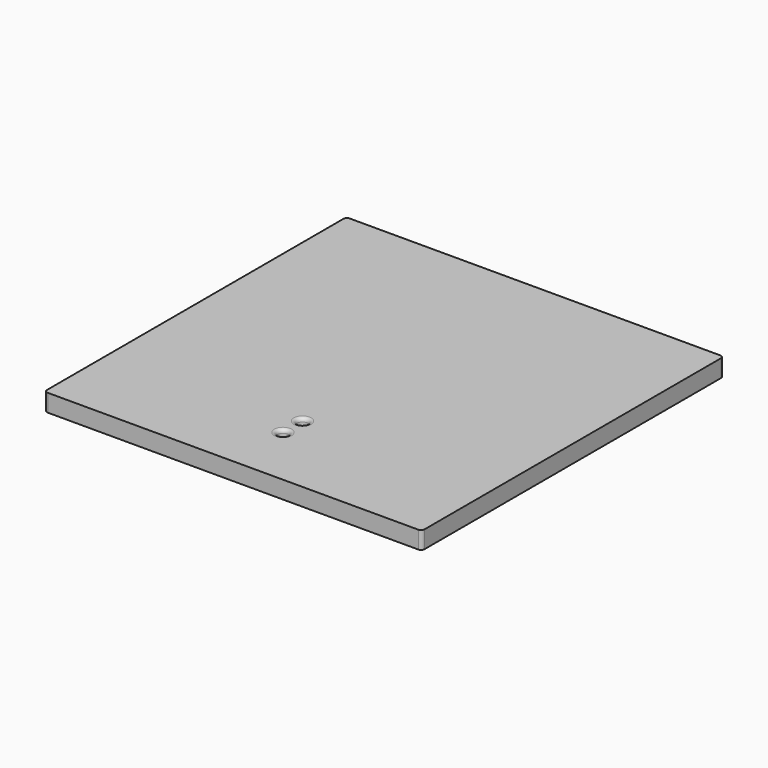
from build123d import *

# Parameters (mm, degrees)
F0_W     = 107.95
F0_H     = 107.95
F0_W_2   = 9.32
F0_H_2   = 14.5
F0_R     = 1.5
F0_H_3   = 30.63
F1_DEPTH = 5
F2_DEPTH = 3
F3_DEPTH = 5
F4_R     = 1


with BuildPart() as f1:
    # F0 (on Top) → F1 (new body)
    with BuildSketch(Plane.XY):
        with Locations((0, 36.13)):
            Rectangle(F0_W, F0_H)
        Polygon((6.16, 42.13), (6.16, 10), (6.16, -6), (0, -6), (-6.16, -6), (-6.16, 10), (-6.16, 42.13), (0, 42.13), align=None, mode=Mode.SUBTRACT)
        Polygon((6.16, 10), (4.66, 10), (4.66, -4.5), (-4.66, -4.5), (-4.66, 10), (-6.16, 10), (-6.16, -6), (0, -6), (6.16, -6), align=None)
        with Locations((0, 2.75)):
            Rectangle(F0_W_2, F0_H_2)
        Circle(F0_R, mode=Mode.SUBTRACT)
        with Locations((0, 7)):
            Circle(F0_R, mode=Mode.SUBTRACT)
        with Locations((0, 25.315)):
            Rectangle(F0_W_2, F0_H_3)
        with Locations((0, 29.13)):
            Circle(F0_R, mode=Mode.SUBTRACT)
        with Locations((0, 36.13)):
            Circle(F0_R, mode=Mode.SUBTRACT)
        Polygon((-4.66, 40.63), (4.66, 40.63), (4.66, 10), (6.16, 10), (6.16, 42.13), (0, 42.13), (-6.16, 42.13), (-6.16, 10), (-4.66, 10), align=None)
        with Locations((0, 29.13)):
            Circle(F0_R)
        with Locations((0, 36.13)):
            Circle(F0_R)
        with Locations((0, 7)):
            Circle(F0_R)
        Circle(F0_R)
    extrude(amount=F1_DEPTH)

    # F0 (on Top) → F2 (cut)
    with BuildSketch(Plane.XY):
        Polygon((-4.66, 40.63), (4.66, 40.63), (4.66, 10), (6.16, 10), (6.16, 42.13), (0, 42.13), (-6.16, 42.13), (-6.16, 10), (-4.66, 10), align=None)
        with Locations((0, 25.315)):
            Rectangle(F0_W_2, F0_H_3)
        with Locations((0, 29.13)):
            Circle(F0_R, mode=Mode.SUBTRACT)
        with Locations((0, 36.13)):
            Circle(F0_R, mode=Mode.SUBTRACT)
        with Locations((0, 29.13)):
            Circle(F0_R)
        with Locations((0, 36.13)):
            Circle(F0_R)
    extrude(amount=F2_DEPTH, mode=Mode.SUBTRACT)

    # F0 (on Top) → F3 (cut, through all)
    with BuildSketch(Plane.XY):
        Circle(F0_R)
        with Locations((0, 7)):
            Circle(F0_R)
    extrude(amount=F3_DEPTH, mode=Mode.SUBTRACT)

    # F4
    f4_edges = [f1.edges().sort_by_distance(p)[0] for p in [
        (6.16, 42.13, 1.5),
        (6.16, 10, 1.5),
        (-53.975, 90.105, 2.5),
        (53.975, 90.105, 2.5),
        (-53.975, -17.845, 2.5),
        (-6.16, 42.13, 1.5),
        (53.975, -17.845, 2.5),
        (-6.16, 10, 1.5),
        (-1.5, 7, 0),
        (-1.5, 0, 0),
        (-1.5, 7, 5),
        (-1.5, 0, 5),
    ]]
    fillet(f4_edges, radius=F4_R)


solid = f1.part
